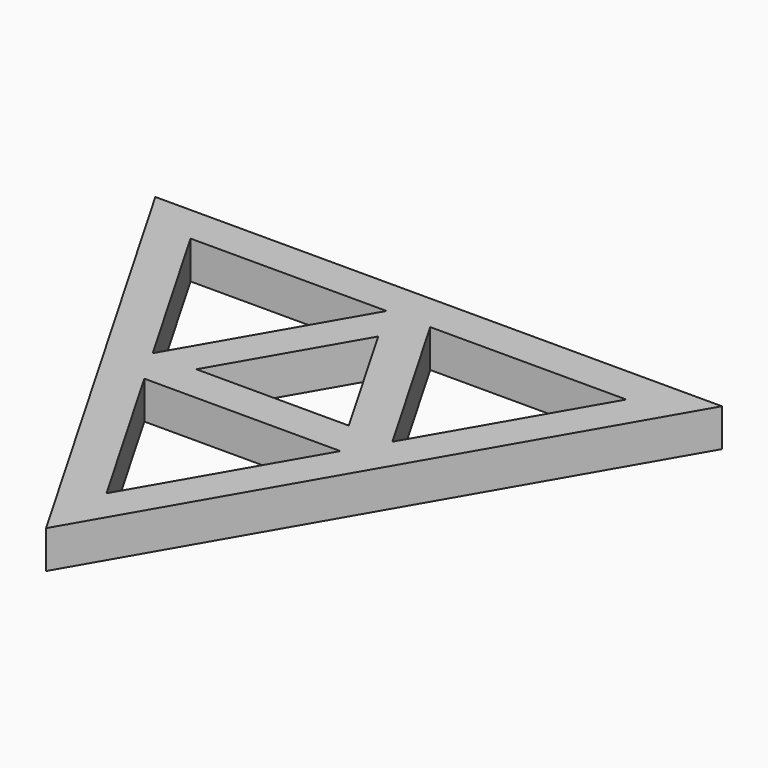
from build123d import *

# Parameters (mm, degrees)
F1_DEPTH = 10


with BuildPart() as f1:
    # F0 (on Top) → F1 (new body)
    with BuildSketch(Plane.XY):
        Polygon((0, 43.3012701892), (-75, 43.3012701892), (-37.5, -21.6506350946), (-31.7264973081, -11.6506350946), (-57.6794919243, 33.3012701892), (-5.7735026919, 33.3012701892), align=None)
        Polygon((5.7735026919, 33.3012701892), (-5.7735026919, 33.3012701892), (-31.7264973081, -11.6506350946), (-28.8397459622, -16.6506350946), (-20.1794919243, -11.6506350946), (0, 23.3012701892), (10.0897459622, 5.8253175473), (18.75, 10.8253175473), align=None)
        Polygon((5.7735026919, 33.3012701892), (0, 43.3012701892), (-5.7735026919, 33.3012701892), align=None)
        Polygon((75, 43.3012701892), (0, 43.3012701892), (5.7735026919, 33.3012701892), (57.6794919243, 33.3012701892), align=None)
        Polygon((-20.1794919243, -11.6506350946), (-28.8397459622, -16.6506350946), (-25.9529946162, -21.6506350946), (25.9529946162, -21.6506350946), (31.7264973081, -11.6506350946), (18.75, 10.8253175473), (10.0897459622, 5.8253175473), (20.1794919243, -11.6506350946), align=None)
        Polygon((37.5, -21.6506350946), (75, 43.3012701892), (57.6794919243, 33.3012701892), (31.7264973081, -11.6506350946), align=None)
        Polygon((25.9529946162, -21.6506350946), (37.5, -21.6506350946), (31.7264973081, -11.6506350946), align=None)
        Polygon((-25.9529946162, -21.6506350946), (-37.5, -21.6506350946), (0, -86.6025403784), (37.5, -21.6506350946), (25.9529946162, -21.6506350946), (0, -66.6025403784), align=None)
        Polygon((-31.7264973081, -11.6506350946), (-37.5, -21.6506350946), (-28.8397459622, -16.6506350946), align=None)
        Polygon((-28.8397459622, -16.6506350946), (-37.5, -21.6506350946), (-25.9529946162, -21.6506350946), align=None)
    extrude(amount=F1_DEPTH)


solid = f1.part
